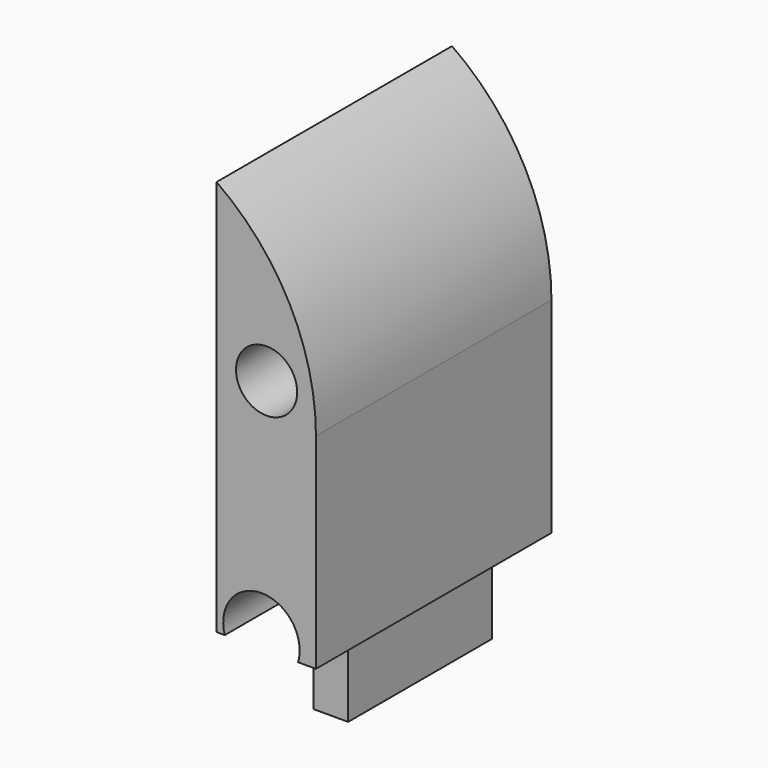
from build123d import *

# Parameters (mm, degrees)
F1_DEPTH = 70.3398883343
F3_R     = 7.3058881184
F3_R_2   = 9.1363164158
F4_DEPTH = 45
F5_W     = 23.752015084
F5_H     = 70.3398883343
F6_DEPTH = 20


with BuildPart() as f1:
    # F0 (on Front) → F1 (new body)
    with BuildSketch(Plane.XZ):
        with BuildLine():
            ThreePointArc((-36.1624062061, 20.6797644496), (-42.455005515, 46.4301466614), (-59.9144212902, 66.3762688637))
            Line((-59.9144212902, 66.3762688637), (-59.9144212902, -48.3024045825))
            Line((-59.9144212902, -48.3024045825), (-36.1624062061, -48.3024045825))
            Line((-36.1624062061, -48.3024045825), (-36.1624062061, 20.6797644496))
        make_face()
    extrude(amount=F1_DEPTH)

    # F3 (on face) → F4 (cut)
    with BuildSketch(Plane.XZ.offset(70.3398883343)):
        with Locations((-47.960318625, 28.4151956439)):
            Circle(F3_R)
        with Locations((-49.1870157421, -25.7221646607)):
            Circle(F3_R_2)
    extrude(amount=-F4_DEPTH, mode=Mode.SUBTRACT)

    # F5 (on face) → F6 (cut)
    with BuildSketch(Plane(origin=(0, 0, -48.3024045825), x_dir=(1, 0, 0), z_dir=(0, 0, -1))):
        with Locations((-48.0384137481, 35.1699441671)):
            Rectangle(F5_W, F5_H)
        Polygon((-42.0686118305, 10.4190278798), (-51.1485151947, 10.4190278798), (-55.7404533029, 27.6891775429), (-50.4079498351, 27.6891775429), (-50.4079498351, 53.3323399723), (-42.0686118305, 53.3323399723), align=None, mode=Mode.SUBTRACT)
    extrude(amount=-F6_DEPTH, mode=Mode.SUBTRACT)


solid = f1.part
